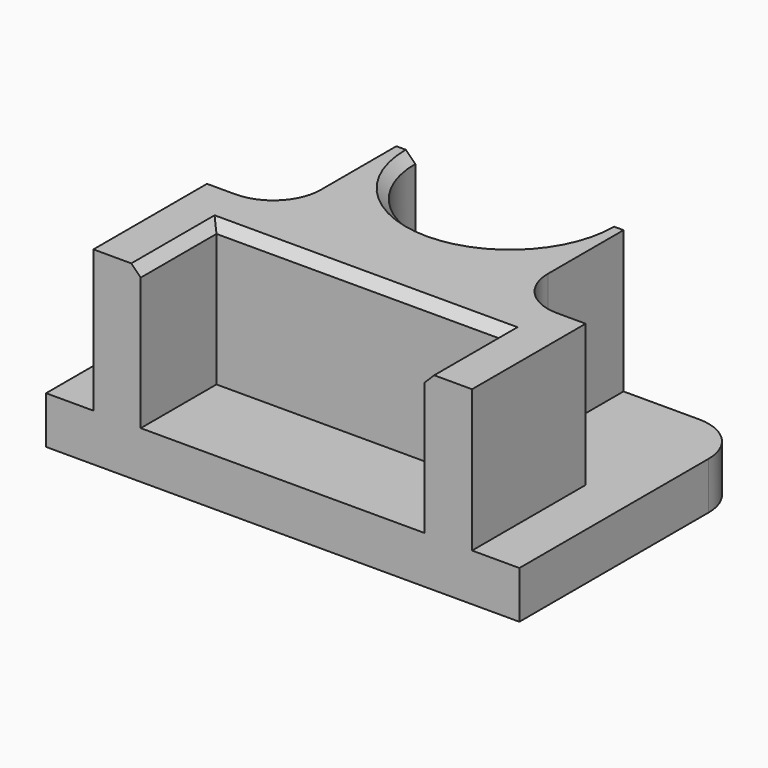
from build123d import *

# Parameters (mm, degrees)
F1_DEPTH = 6.35
F3_DEPTH = 19.05
F4_SIZE  = 1.27


with BuildPart() as f1:
    # F0 (on Top) → F1 (new body)
    with BuildSketch(Plane.XY):
        with BuildLine():
            Line((-31.75, -19.05), (31.75, -19.05))
            Line((31.75, -19.05), (31.75, 12.7))
            ThreePointArc((31.75, 12.7), (29.8901280605, 17.1901280605), (25.4, 19.05))
            Line((25.4, 19.05), (12.7, 19.05))
            ThreePointArc((12.7, 19.05), (0, 6.35), (-12.7, 19.05))
            Line((-12.7, 19.05), (-25.4, 19.05))
            ThreePointArc((-25.4, 19.05), (-29.8901280605, 17.1901280605), (-31.75, 12.7))
            Line((-31.75, 12.7), (-31.75, -19.05))
        make_face()
    extrude(amount=F1_DEPTH)

    # F2 (on face) → F3 (join)
    with BuildSketch(Plane.XY.offset(6.35)):
        with BuildLine():
            Line((-25.4, 0), (-25.4, -19.05))
            Line((-25.4, -19.05), (-19.05, -19.05))
            Line((-19.05, -19.05), (-19.05, -6.35))
            Line((-19.05, -6.35), (19.05, -6.35))
            Line((19.05, -6.35), (19.05, -19.05))
            Line((19.05, -19.05), (25.4, -19.05))
            Line((25.4, -19.05), (25.4, 0))
            Line((25.4, 0), (21.59, 0))
            ThreePointArc((21.59, 0), (17.0998719395, 1.8598719395), (15.24, 6.35))
            Line((15.24, 6.35), (15.24, 19.05))
            Line((15.24, 19.05), (12.7, 19.05))
            ThreePointArc((12.7, 19.05), (0, 6.35), (-12.7, 19.05))
            Line((-12.7, 19.05), (-15.24, 19.05))
            Line((-15.24, 19.05), (-15.24, 6.35))
            ThreePointArc((-15.24, 6.35), (-17.0998719395, 1.8598719395), (-21.59, 0))
            Line((-21.59, 0), (-25.4, 0))
        make_face()
    extrude(amount=F3_DEPTH)

    # F4
    f4_edges = [f1.edges().sort_by_distance(p)[0] for p in [
        (0, 6.35, 25.4),
        (0, -6.35, 25.4),
        (-19.05, -12.7, 25.4),
        (19.05, -12.7, 25.4),
    ]]
    chamfer(f4_edges, length=F4_SIZE)


solid = f1.part
